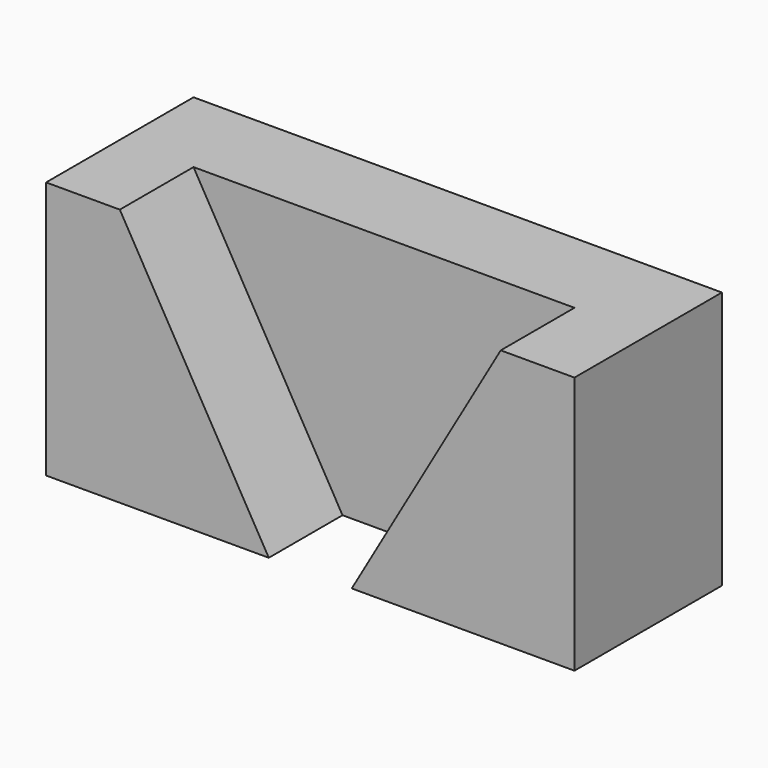
from build123d import *

# Parameters (mm, degrees)
F0_W     = 136.525
F0_H     = 66.675
F1_DEPTH = 47.625
F3_DEPTH = 23.8125


with BuildPart() as f1:
    # F0 (on Front) → F1 (new body)
    with BuildSketch(Plane.XZ):
        Rectangle(F0_W, F0_H)
    extrude(amount=F1_DEPTH)

    # F2 (on face) → F3 (cut)
    with BuildSketch(Plane.XZ.offset(47.625)):
        Polygon((49.2125, 33.3375), (-49.2125, 33.3375), (-10.717671, -33.3375), (10.717671, -33.3375), align=None)
    extrude(amount=-F3_DEPTH, mode=Mode.SUBTRACT)


solid = f1.part
